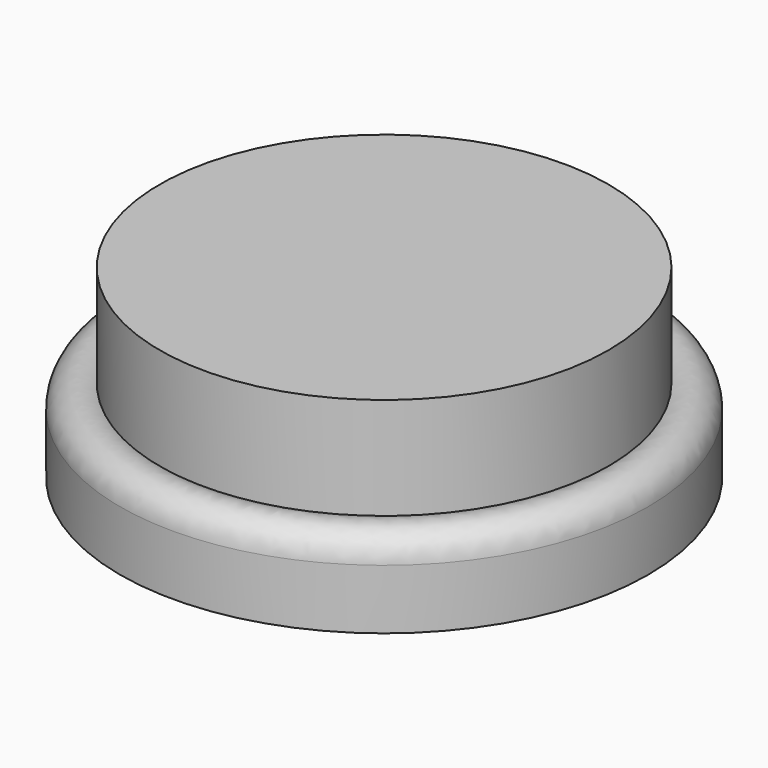
from build123d import *

# Parameters (mm, degrees)
F2_R     = 5
F3_R     = 42.5
F3_R_2   = 32.679492
F4_DEPTH = 25


with BuildPart() as f1:
    # F0 (on Front) → F1 (revolve)
    with BuildSketch(Plane.XZ):
        Polygon((-50, 0), (0, 0), (0, 10), (-32.679492, 10), (-50, 20), align=None)
    revolve(axis=Axis((0, 0, 5), (0, 0, -1)))

    # F2
    f2_edges = [f1.edges().sort_by_distance(p)[0] for p in [
        (50, 0, 20),
    ]]
    fillet(f2_edges, radius=F2_R)


with BuildPart() as f4:
    # F3 (on face) → F4 (new body)
    with BuildSketch(Plane.XY.offset(10)):
        Circle(F3_R)
        Circle(F3_R_2, mode=Mode.SUBTRACT)
        Circle(F3_R_2)
    extrude(amount=F4_DEPTH)


solid = Compound([f1.part, f4.part])
